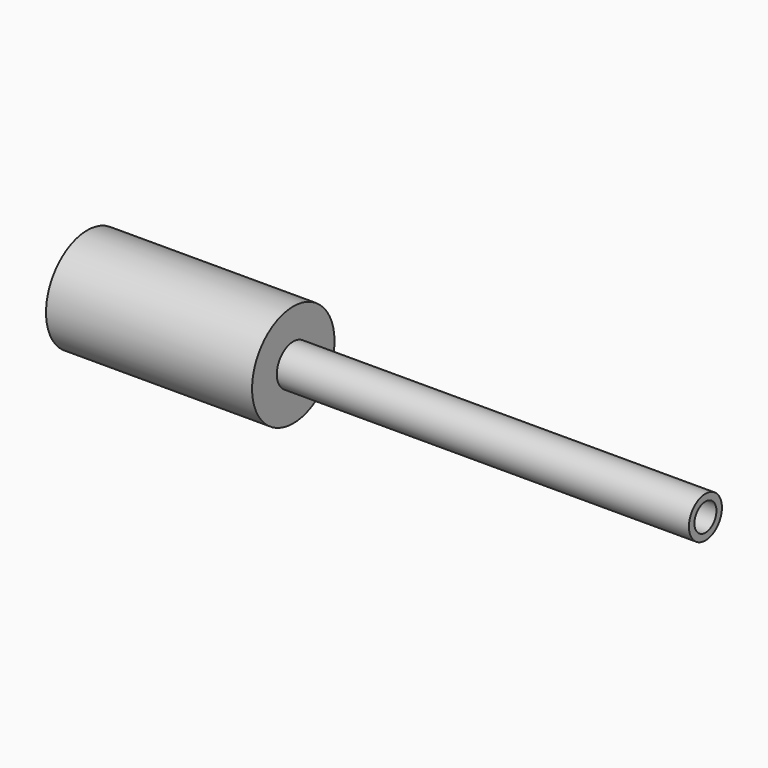
from build123d import *

# Parameters (mm, degrees)
F0_R     = 15
F0_R_2   = 6
F0_R_3   = 4
F1_DEPTH = 60
F2_DEPTH = 180
F3_DEPTH = 160


with BuildPart() as f1:
    # F0 (on Right) → F1 (new body)
    with BuildSketch(Plane.YZ):
        Circle(F0_R)
        Circle(F0_R_2, mode=Mode.SUBTRACT)
        Circle(F0_R_2)
        Circle(F0_R_3, mode=Mode.SUBTRACT)
        Circle(F0_R_3)
    extrude(amount=F1_DEPTH)

    # F0 (on Right) → F2 (join)
    with BuildSketch(Plane.YZ):
        Circle(F0_R_2)
        Circle(F0_R_3, mode=Mode.SUBTRACT)
    extrude(amount=F2_DEPTH)

    # F0 (on Right) → F3 (join)
    with BuildSketch(Plane.YZ):
        Circle(F0_R_3)
    extrude(amount=F3_DEPTH)


solid = f1.part
